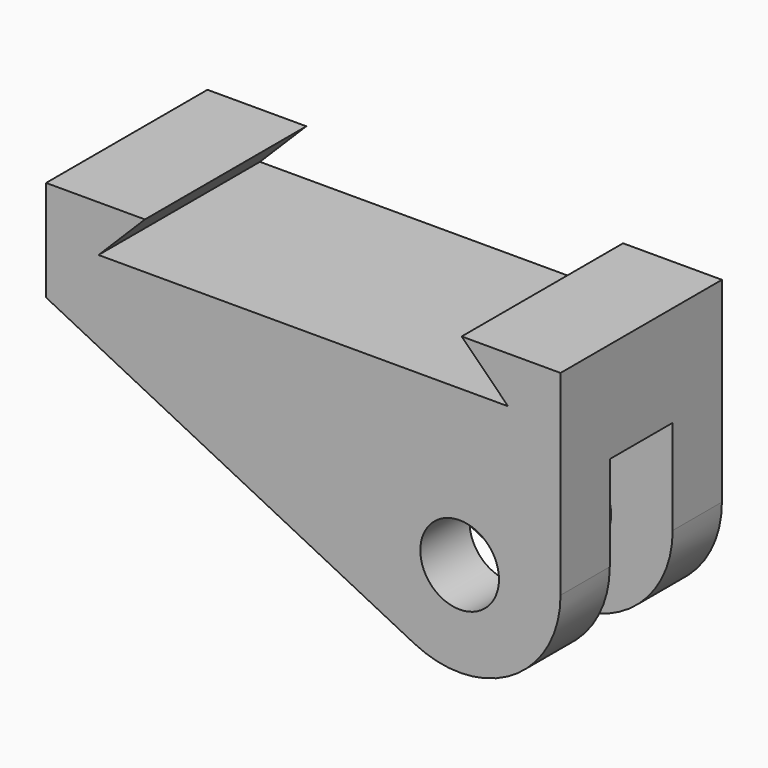
from build123d import *

# Parameters (mm, degrees)
F0_R     = 4.953
F1_DEPTH = 12.7
F2_W     = 64.77
F2_H     = 9.906
F3_DEPTH = 24.639


with BuildPart() as f1:
    # F0 (on Front) → F1 (new body, symmetric)
    with BuildSketch(Plane.XZ):
        with BuildLine():
            Line((-39.624, 12.7), (-52.07, 12.7))
            Line((-52.07, 12.7), (-52.07, 0))
            Line((-52.07, 0), (-5.699577, -23.287221))
            ThreePointArc((-5.699577, -23.287221), (6.667285, -22.747131), (12.7, -11.938))
            Line((12.7, -11.938), (12.7, 0))
            Line((12.7, 0), (12.7, 12.7))
            Line((12.7, 12.7), (0.254, 12.7))
            Line((0.254, 12.7), (6.096, 6.858))
            Line((6.096, 6.858), (-45.466, 6.858))
            Line((-45.466, 6.858), (-39.624, 12.7))
        make_face()
        with Locations((0, -12.7)):
            Circle(F0_R, mode=Mode.SUBTRACT)
    extrude(amount=F1_DEPTH, both=True)

    # F2 (on Top) → F3 (cut, through all)
    with BuildSketch(Plane.XY):
        with Locations((-19.685, 0)):
            Rectangle(F2_W, F2_H)
    extrude(amount=-F3_DEPTH, mode=Mode.SUBTRACT)


solid = f1.part
